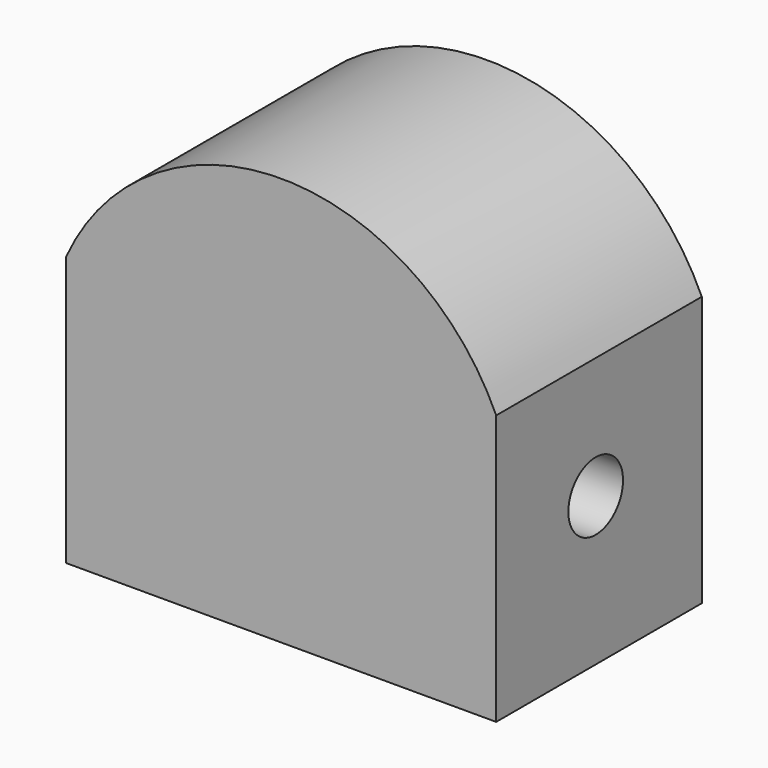
from build123d import *

# Parameters (mm, degrees)
F1_DEPTH = 25.4
F3_D     = 6.7564


with BuildPart() as f1:
    # F0 (on Front) → F1 (new body)
    with BuildSketch(Plane.XZ):
        with BuildLine():
            Line((-42.5008572638, 0), (0, 0))
            Line((0, 0), (0, 26.6700014472))
            ThreePointArc((0, 26.6700014472), (-21.2504286319, 40.3724545475), (-42.5008572638, 26.6700014472))
            Line((-42.5008572638, 26.6700014472), (-42.5008572638, 0))
        make_face()
    extrude(amount=-F1_DEPTH)

    # F3 (through all)
    with Locations(Plane.YZ):
        with Locations((12.291749008, 14.6626662463)):
            Hole(F3_D / 2)


solid = f1.part
